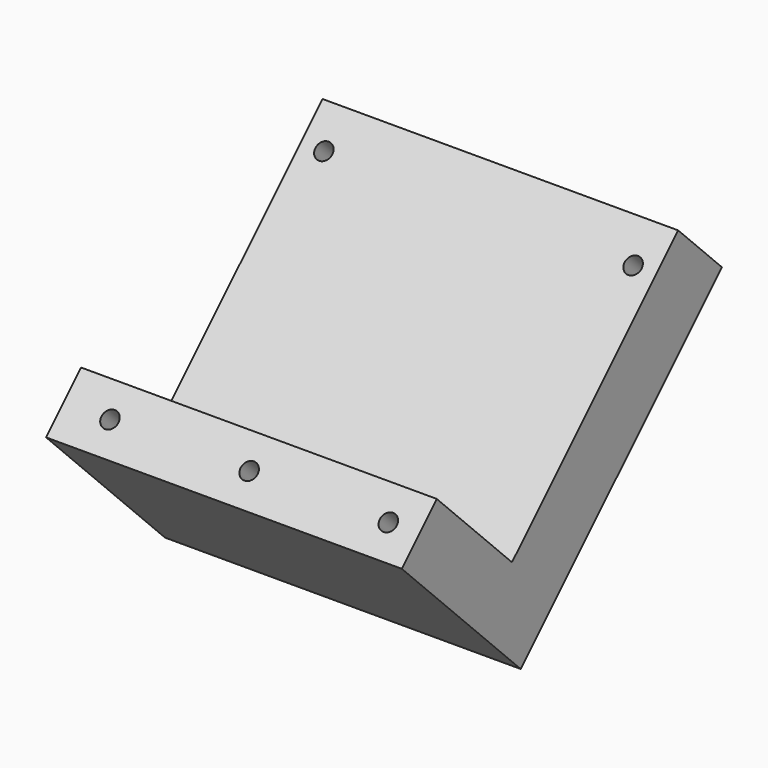
from build123d import *

# Parameters (mm, degrees)
SKETCH035_W             = 115
SKETCH035_H             = 110
PAD002_DEPTH            = 25
SKETCH036_W             = 115
SKETCH036_H             = 20
PAD003_DEPTH            = 68
SKETCH037_R             = 2.75
HOLE001_DEPTH           = 68.001
HOLE004_D               = 5.5
HOLE004_CBORE_D         = 13
HOLE004_CBORE_DEPTH     = 6.4
BODY008_PLACEMENT_ANGLE = 45


with BuildPart() as part:
    # Sketch035 → Pad002 (new body)
    with BuildSketch(Plane.XY.offset(-39)):
        with Locations((217.5, 35)):
            Rectangle(SKETCH035_W, SKETCH035_H)
    extrude(amount=-PAD002_DEPTH)

    # Sketch036 → Pad003 (join)
    with BuildSketch(Plane.XY.offset(4)):
        with Locations((217.5, -15)):
            Rectangle(SKETCH036_W, SKETCH036_H)
    extrude(amount=-PAD003_DEPTH)

    # Sketch037 → Hole001 (cut, through all)
    with BuildSketch(Plane.XY.offset(4)):
        with Locations((175, -15)):
            Circle(SKETCH037_R)
        with Locations((265, -15)):
            Circle(SKETCH037_R)
        with Locations((220, -15)):
            Circle(SKETCH037_R)
    extrude(amount=-HOLE001_DEPTH, mode=Mode.SUBTRACT)

    # Hole004 (through all)
    with Locations(Plane(origin=(0, 0, -64), x_dir=(1, 0, 0), z_dir=(0, 0, -1))):
        with Locations((167.5, -77.5), (267.5, -77.5)):
            CounterBoreHole(HOLE004_D / 2, HOLE004_CBORE_D / 2, HOLE004_CBORE_DEPTH)


with BuildPart() as part_1:
    # Body008 placement: moved
    add(part.part.moved(Location((182.5, 417.426407, 42.426407))).rotate(Axis((182.5, 417.426407, 42.426407), (1, 0, 0)), BODY008_PLACEMENT_ANGLE))


solid = part_1.part
